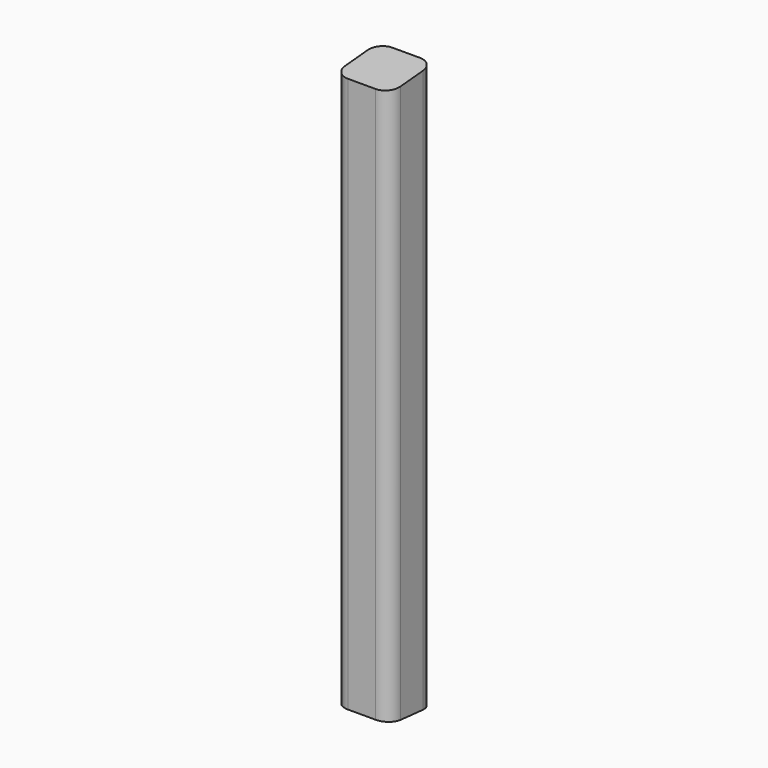
from build123d import *

# Parameters (mm, degrees)
F1_DEPTH = 258.572
F3_DEPTH = 12.7
F5_DEPTH = 12.7


with BuildPart() as f1:
    # F0 (on Top) → F1 (new body)
    with BuildSketch(Plane.XY):
        with BuildLine():
            ThreePointArc((12.7, 6.35), (10.840128, 10.840128), (6.35, 12.7))
            Line((6.35, 12.7), (-6.35, 12.7))
            ThreePointArc((-6.35, 12.7), (-10.840128, 10.840128), (-12.7, 6.35))
            Line((-12.7, 6.35), (-12.7, -6.35))
            ThreePointArc((-12.7, -6.35), (-10.840128, -10.840128), (-6.35, -12.7))
            Line((-6.35, -12.7), (6.35, -12.7))
            ThreePointArc((6.35, -12.7), (10.840128, -10.840128), (12.7, -6.35))
            Line((12.7, -6.35), (12.7, 6.35))
        make_face()
    extrude(amount=F1_DEPTH)

    # F2 (on Right) → F3 (cut, symmetric)
    with BuildSketch(Plane.YZ):
        Polygon((-17.71266, 0), (12.69978, 0), (-17.71266, 2.660744), align=None)
    extrude(amount=F3_DEPTH, both=True, mode=Mode.SUBTRACT)

    # F4 (on Right) → F5 (cut, symmetric)
    with BuildSketch(Plane.YZ):
        Polygon((-13.926481, 256.242485), (12.7, 258.572), (-13.926481, 258.572), align=None)
    extrude(amount=F5_DEPTH, both=True, mode=Mode.SUBTRACT)


solid = f1.part
